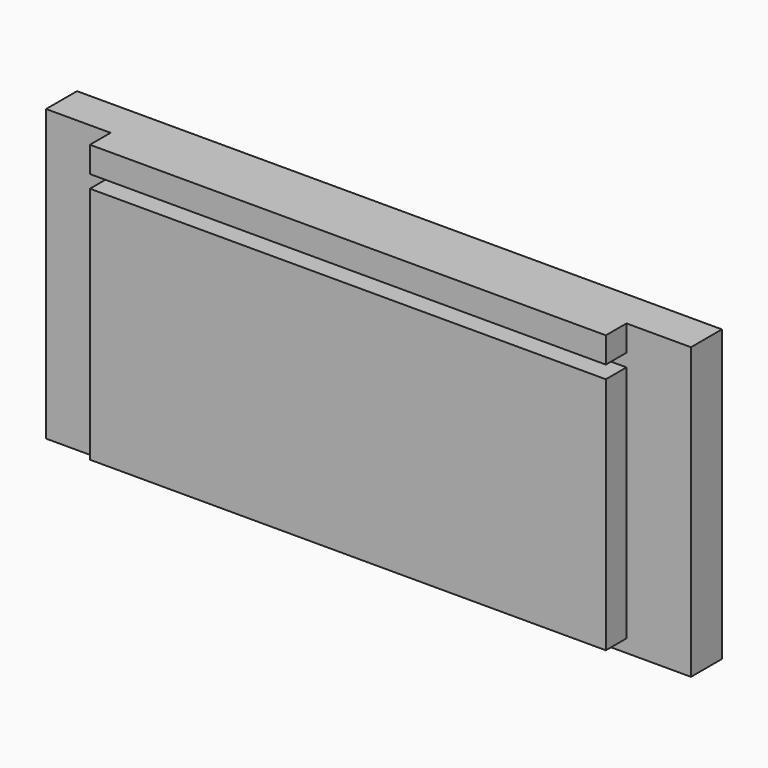
from build123d import *

# Parameters (mm, degrees)
F0_W     = 160
F0_H     = 4
F1_DEPTH = 12
F0_H_2   = 74
F0_H_3   = 8
F2_DEPTH = 20


with BuildPart() as f1:
    # F0 (on Front) → F1 (new body)
    with BuildSketch(Plane.XZ):
        Polygon((-80, 45), (-100, 45), (-100, -45), (-80, -45), (-80, -41), (-80, 33), (-80, 37), align=None)
        Polygon((100, 45), (80, 45), (80, 37), (80, 33), (80, -41), (80, -45), (100, -45), align=None)
        with Locations((0, -43)):
            Rectangle(F0_W, F0_H)
        with Locations((0, 35)):
            Rectangle(F0_W, F0_H)
    extrude(amount=F1_DEPTH)

    # F0 (on Front) → F2 (join)
    with BuildSketch(Plane.XZ):
        with Locations((0, -4)):
            Rectangle(F0_W, F0_H_2)
        with Locations((0, 41)):
            Rectangle(F0_W, F0_H_3)
    extrude(amount=F2_DEPTH)


solid = f1.part
